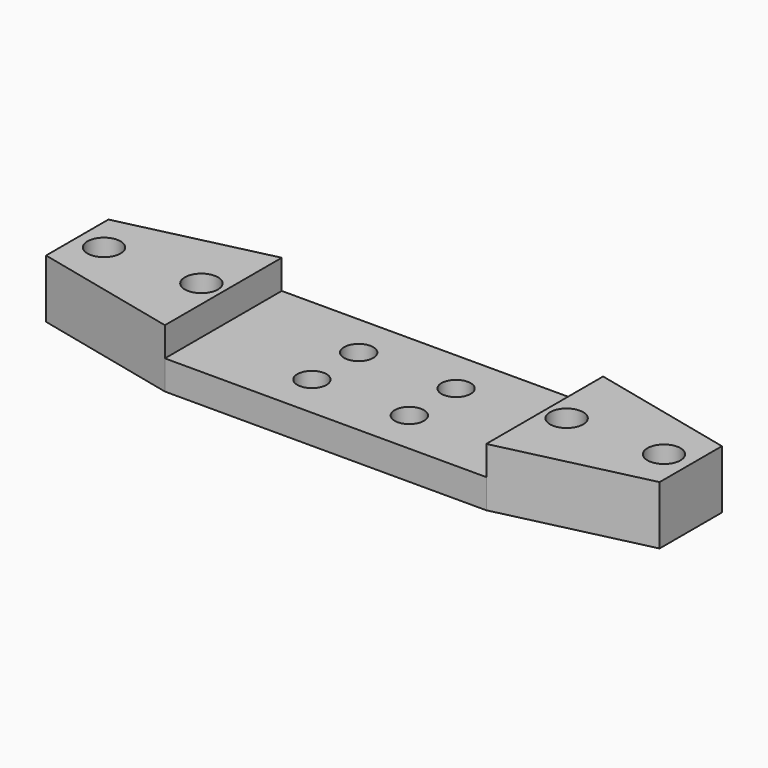
from build123d import *

# Parameters (mm, degrees)
SKETCH068_R  = 1.7
PAD050_DEPTH = 100
SKETCH067_R  = 1.5
PAD049_DEPTH = 3
PAD048_DEPTH = 3


with BuildPart() as mountscrewcutouts:
    # Sketch068 → Pad050 (new body)
    with BuildSketch(Plane.XY):
        with Locations((28.75, 0)):
            Circle(SKETCH068_R)
        with Locations((18.75, 0)):
            Circle(SKETCH068_R)
    extrude(amount=-PAD050_DEPTH)


with BuildPart() as baseplate:
    # Sketch067 → Pad049 (new body)
    with BuildSketch(Plane(origin=(0, 0, -23), x_dir=(-1, 0, 0), z_dir=(0, 0, 1))):
        Polygon((-31.5, -4), (-31.5, 4), (-16.5, 7.5), (0, 7.5), (0, -7.5), (-16.5, -7.5), align=None)
        with Locations((-5, 3)):
            Circle(SKETCH067_R, mode=Mode.SUBTRACT)
        with Locations((-5, -3)):
            Circle(SKETCH067_R, mode=Mode.SUBTRACT)
    extrude(amount=-PAD049_DEPTH)


with BuildPart() as supportplate:
    # Sketch066 → Pad048 (new body)
    with BuildSketch(Plane(origin=(0, 0, -20), x_dir=(-1, 0, 0), z_dir=(0, 0, 1))):
        Polygon((-31.5, -4), (-31.5, 4), (-16.5, 7.5), (-16.5, -7.5), align=None)
    extrude(amount=-PAD048_DEPTH)

    # Fusion004017: union BasePlate
    add(baseplate.part)

    # Cut007017: cut MountScrewCutouts
    add(mountscrewcutouts.part, mode=Mode.SUBTRACT)


with BuildPart() as fusion004018:
    # Part__Mirroring001: instance of SupportPlate
    add(supportplate.part.mirror(Plane(origin=(0, 0, 0), x_dir=(0, -1, 0), z_dir=(1, 0, 0))))

    # Fusion004018: union SupportPlate
    add(supportplate.part)


solid = fusion004018.part
